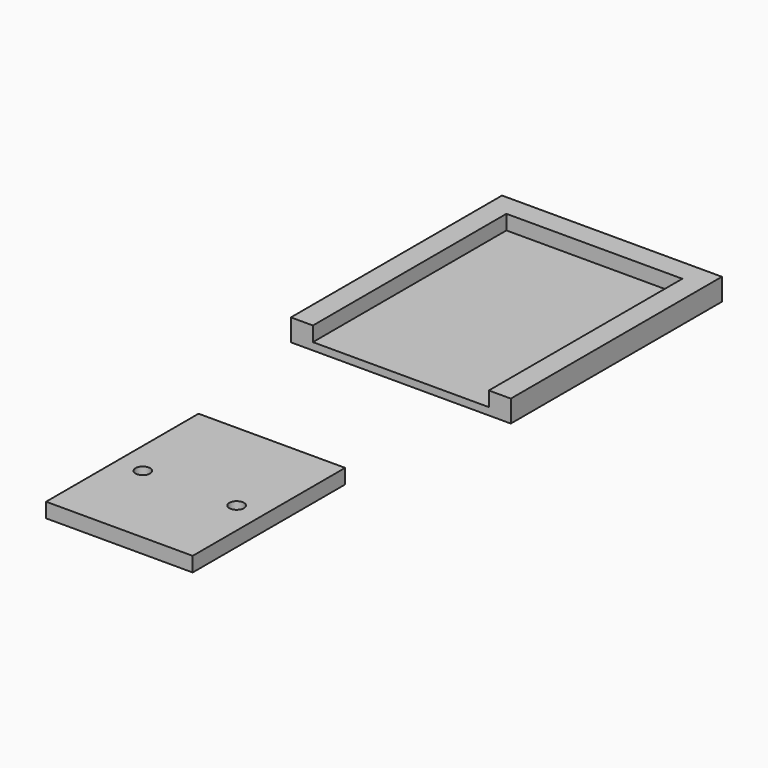
from build123d import *

# Parameters (mm, degrees)
F0_W     = 100
F0_H     = 130
F1_DEPTH = 10
F2_R     = 5
F3_DEPTH = 25
F5_W     = 150
F5_H     = 180
F6_DEPTH = 15
F7_W     = 120
F7_H     = 165
F8_DEPTH = 10


with BuildPart() as f1:
    # F0 (on Top) → F1 (new body)
    with BuildSketch(Plane.XY):
        with Locations((0, -25)):
            Rectangle(F0_W, F0_H)
    extrude(amount=F1_DEPTH)

    # F2 (on face) → F3 (cut)
    with BuildSketch(Plane(origin=(0, 0, 0), x_dir=(1, 0, 0), z_dir=(0, 0, -1))):
        with Locations((31.99608, 30)):
            Circle(F2_R)
        with Locations((-31.99608, 30)):
            Circle(F2_R)
    extrude(amount=-F3_DEPTH, mode=Mode.SUBTRACT)


with BuildPart() as f6:
    # F5 (on Top) → F6 (new body)
    with BuildSketch(Plane.XY):
        with Locations((0, 240)):
            Rectangle(F5_W, F5_H)
    extrude(amount=F6_DEPTH)

    # F7 (on face) → F8 (cut)
    with BuildSketch(Plane.XY.offset(15)):
        with Locations((0, 232.5)):
            Rectangle(F7_W, F7_H)
    extrude(amount=-F8_DEPTH, mode=Mode.SUBTRACT)


solid = Compound([f1.part, f6.part])
